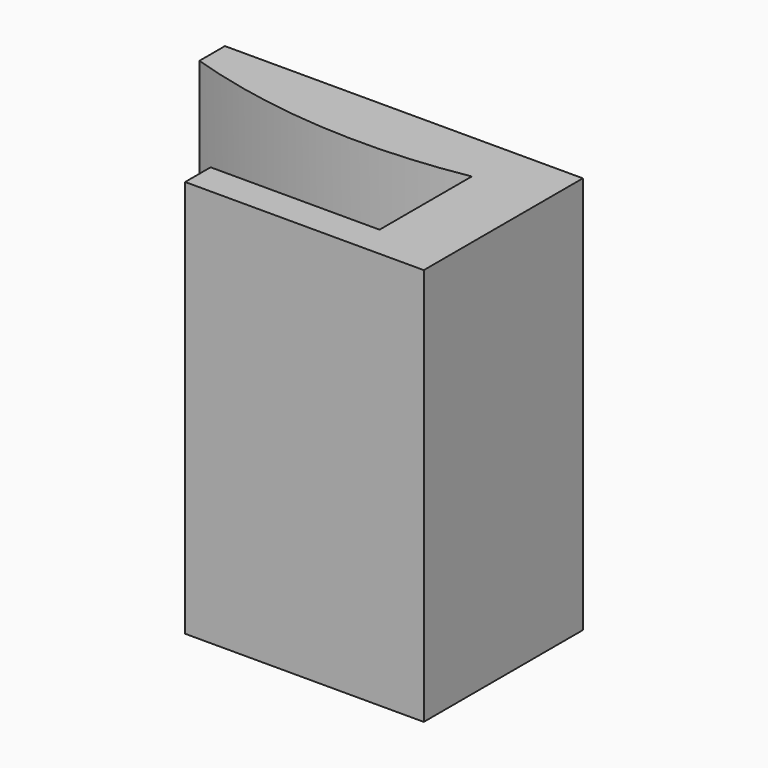
from build123d import *

# Parameters (mm, degrees)
F1_DEPTH = 20


with BuildPart() as f1:
    # F0 (on Top) → F1 (new body)
    with BuildSketch(Plane.XY):
        with BuildLine():
            Line((-12, 1.6), (-12, 0))
            Line((-12, 0), (0, 0))
            Line((0, 0), (0, 10))
            Line((0, 10), (-18, 10))
            Line((-18, 10), (-18, 8.4))
            ThreePointArc((-18, 8.4), (-10.814003, 7.009238), (-3.505098, 7.4))
            Line((-3.505098, 7.4), (-3.505098, 1.6))
            Line((-3.505098, 1.6), (-12, 1.6))
        make_face()
    extrude(amount=F1_DEPTH)


solid = f1.part
